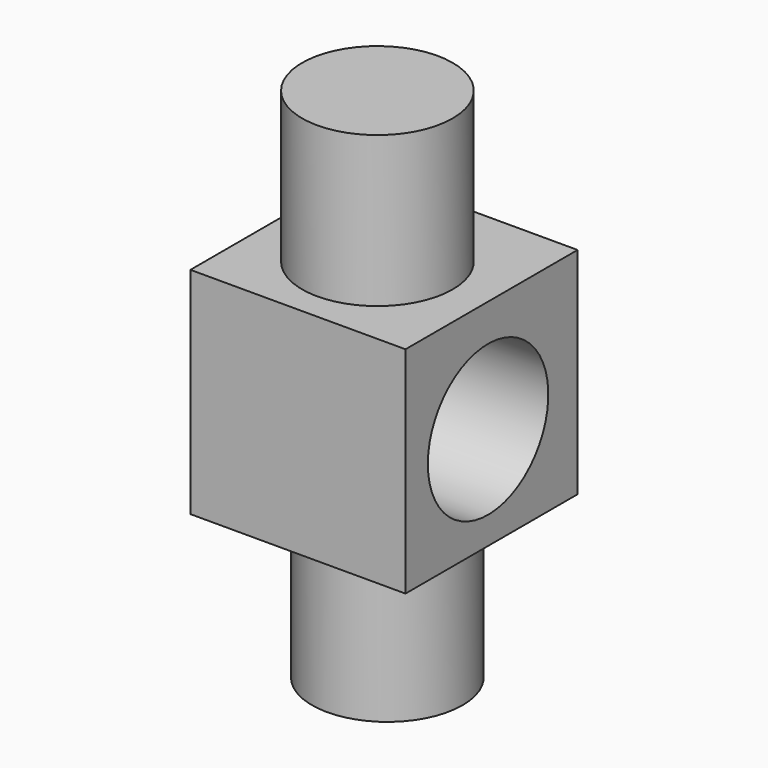
from build123d import *

# Parameters (mm, degrees)
F0_W     = 100
F0_H     = 100
F1_DEPTH = 100
F2_R     = 35
F3_DEPTH = 70
F4_R     = 35
F5_DEPTH = 70
F6_R     = 35
F7_DEPTH = 100


with BuildPart() as f1:
    # F0 (on Front) → F1 (new body)
    with BuildSketch(Plane.XZ):
        with Locations((50, 50)):
            Rectangle(F0_W, F0_H)
    extrude(amount=F1_DEPTH)

    # F2 (on face) → F3 (join)
    with BuildSketch(Plane.XY.offset(100)):
        with Locations((48.980955, -52.554507)):
            Circle(F2_R)
    extrude(amount=F3_DEPTH)

    # F4 (on face) → F5 (join)
    with BuildSketch(Plane(origin=(0, 0, 0), x_dir=(1, 0, 0), z_dir=(0, 0, -1))):
        with Locations((52.017719, 50.589383)):
            Circle(F4_R)
    extrude(amount=F5_DEPTH)

    # F6 (on face) → F7 (cut)
    with BuildSketch(Plane(origin=(0, 0, 0), x_dir=(0, -1, 0), z_dir=(-1, 0, 0))):
        with Locations((52.017719, 47.73806)):
            Circle(F6_R)
    extrude(amount=-F7_DEPTH, mode=Mode.SUBTRACT)


solid = f1.part
